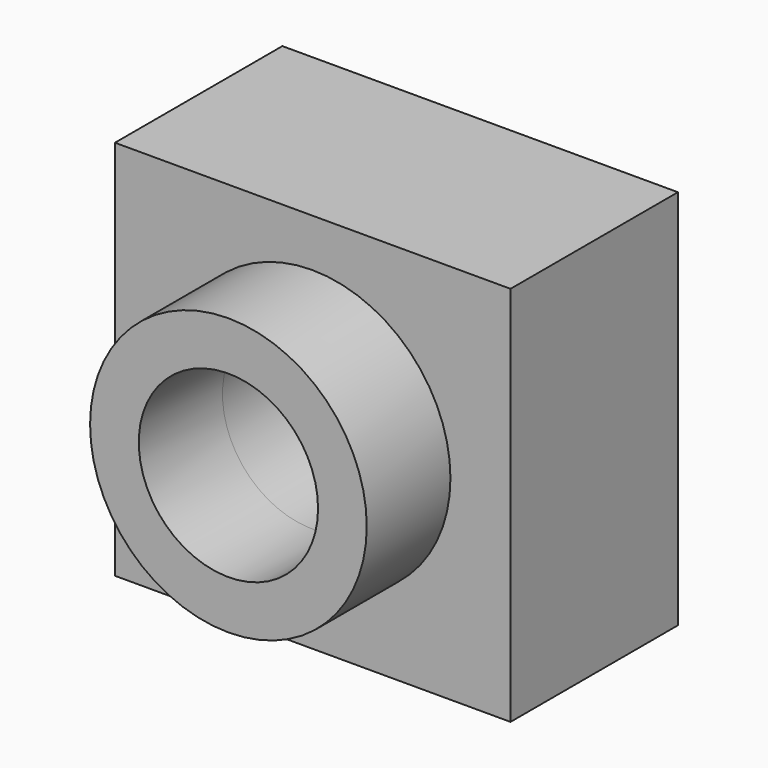
from build123d import *

# Parameters (mm, degrees)
F0_W      = 52.766081
F0_H      = 46.285272
F1_DEPTH  = 25.4
F2_R      = 16.792402
F2_R_2    = 10.881349
F3_DEPTH  = 12.7
F3_FACE_R = 10.881349
F4_DEPTH  = 25.4
F5_W      = 4.748795
F5_H      = 46.285272
F6_DEPTH  = 25.4


with BuildPart() as f1:
    # F0 (on Front) → F1 (new body)
    with BuildSketch(Plane.XZ):
        with Locations((-26.38304, 23.142636)):
            Rectangle(F0_W, F0_H)
    extrude(amount=F1_DEPTH)

    # F2 (on face) → F3 (join)
    with BuildSketch(Plane.XZ.offset(25.4)):
        with Locations((-28.835148, 23.680672)):
            Circle(F2_R)
        with Locations((-28.835148, 23.680672)):
            Circle(F2_R_2, mode=Mode.SUBTRACT)
    extrude(amount=F3_DEPTH)

    # F3_face (on face) → F4 (cut)
    with BuildSketch(Plane(origin=(-28.835148, -25.4, 23.680672), x_dir=(1, 0, 0), z_dir=(0, -1, 0))):
        Circle(F3_FACE_R)
    extrude(amount=-F4_DEPTH, mode=Mode.SUBTRACT)

    # F5 (on face) → F6 (cut)
    with BuildSketch(Plane.XZ.offset(25.4)):
        with Locations((-2.374397, 23.142636)):
            Rectangle(F5_W, F5_H)
    extrude(amount=-F6_DEPTH, mode=Mode.SUBTRACT)


solid = f1.part
